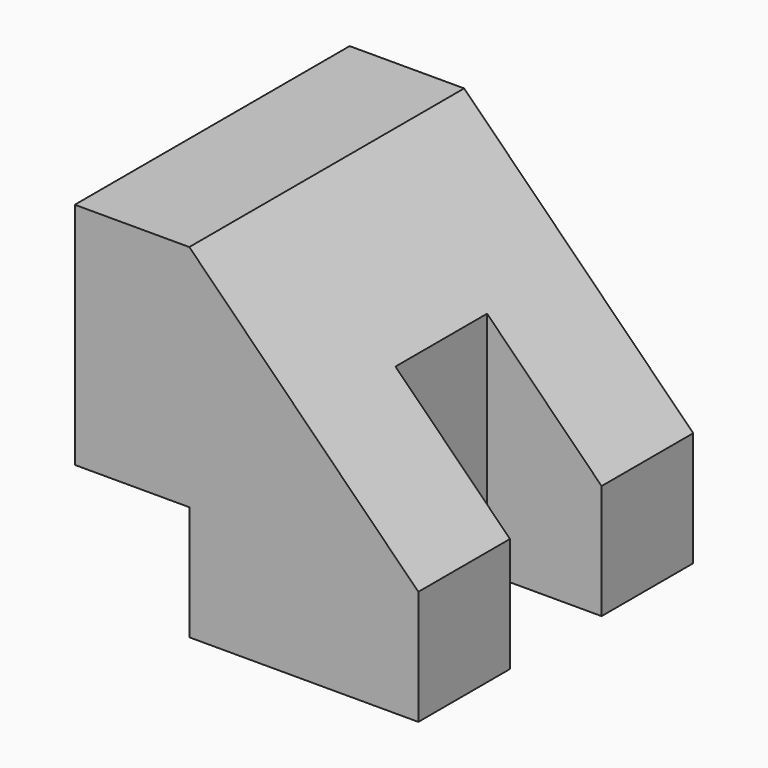
from build123d import *

# Parameters (mm, degrees)
F1_DEPTH = 30
F2_W     = 10
F2_H     = 10
F3_DEPTH = 30.001


with BuildPart() as f1:
    # F0 (on Front) → F1 (new body)
    with BuildSketch(Plane.XZ):
        Polygon((10, 10), (10, 0), (30, 0), (30, 10), (10, 30), (0, 30), (0, 10), align=None)
    extrude(amount=F1_DEPTH)

    # F2 (on face) → F3 (cut, through all)
    with BuildSketch(Plane(origin=(0, 0, 0), x_dir=(1, 0, 0), z_dir=(0, 0, -1))):
        with Locations((25, 15)):
            Rectangle(F2_W, F2_H)
    extrude(amount=-F3_DEPTH, mode=Mode.SUBTRACT)


solid = f1.part
